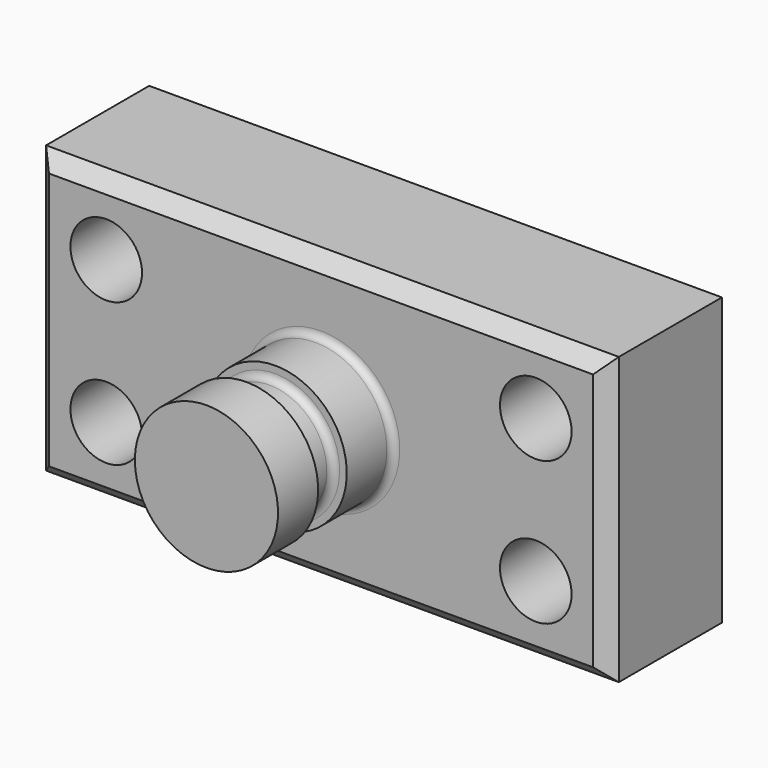
from build123d import *

# Parameters (mm, degrees)
F0_W     = 101.6
F0_H     = 50.8
F1_DEPTH = 25.4
F2_R     = 6.35
F3_DEPTH = 25.401
F4_W     = 12.7
F4_H     = 25.4
F6_W     = 4.233082
F6_H     = 6.35
F8_R     = 1.27
F9_SIZE  = 2.54


with BuildPart() as f1:
    # F0 (on Front) → F1 (new body)
    with BuildSketch(Plane.XZ):
        Rectangle(F0_W, F0_H)
    extrude(amount=F1_DEPTH)

    # F2 (on face) → F3 (cut, through all)
    with BuildSketch(Plane.XZ.offset(25.4)):
        with Locations((-38.1, 12.7)):
            Circle(F2_R)
        with Locations((-38.1, -12.7)):
            Circle(F2_R)
        with Locations((38.1, 12.7)):
            Circle(F2_R)
        with Locations((38.1, -12.7)):
            Circle(F2_R)
    extrude(amount=-F3_DEPTH, mode=Mode.SUBTRACT)

    # F4 (on Top) → F5 (revolve)
    with BuildSketch(Plane.XY):
        with Locations((-6.35, -38.1)):
            Rectangle(F4_W, F4_H)
    revolve(axis=Axis((0, -38.1, 0), (0, -1, 0)))

    # F6 (on Top) → F7 (revolve, cut)
    with BuildSketch(Plane.XY):
        with Locations((-12.276541, -38.735)):
            Rectangle(F6_W, F6_H)
    revolve(axis=Axis((0, -30.981315, 0), (0, -1, 0)), mode=Mode.SUBTRACT)

    # F8
    f8_edges = [f1.edges().sort_by_distance(p)[0] for p in [
        (12.7, -25.4, 0),
        (10.16, -41.91, 0),
        (10.16, -35.56, 0),
    ]]
    fillet(f8_edges, radius=F8_R)

    # F9
    f9_edges = [f1.edges().sort_by_distance(p)[0] for p in [
        (0, -25.4, -25.4),
        (-50.8, -25.4, 0),
        (0, -25.4, 25.4),
        (50.8, -25.4, 0),
    ]]
    chamfer(f9_edges, length=F9_SIZE)


solid = f1.part
